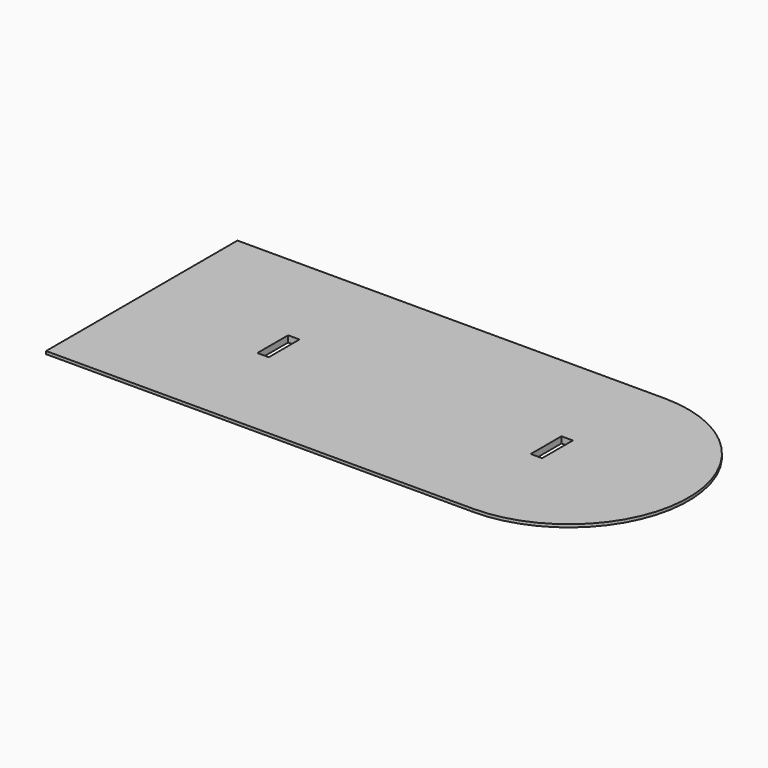
from build123d import *

# Parameters (mm, degrees)
F1_DEPTH = 28.575
F2_SIZE2 = 15.875
F2_SIZE  = 50.8


with BuildPart() as f1:
    # F0 (on Top) → F1 (new body)
    with BuildSketch(Plane.XY):
        with BuildLine():
            ThreePointArc((1219.2, 0), (1062.9707570849, 377.1707570849), (685.8, 533.4))
            Line((685.8, 533.4), (-1219.2, 533.4))
            Line((-1219.2, 533.4), (-1219.2, -533.4))
            Line((-1219.2, -533.4), (685.8, -533.4))
            ThreePointArc((685.8, -533.4), (1062.9707570849, -377.1707570849), (1219.2, 0))
        make_face()
        Polygon((-584.2, 85.725), (-584.2, 0), (-584.2, -85.725), (-635, -85.725), (-635, 85.725), align=None, mode=Mode.SUBTRACT)
        Polygon((584.2, -85.725), (584.2, 0), (584.2, 85.725), (635, 85.725), (635, -85.725), align=None, mode=Mode.SUBTRACT)
    extrude(amount=F1_DEPTH)

    # F2
    f2_edges = [f1.edges().sort_by_distance(p)[0] for p in [
        (-266.7, -533.4, 0),
        (1219.2, 0, 0),
        (-266.7, 533.4, 0),
    ]]
    f2_side = f1.faces().sort_by_distance((-54.568247, 0, 0))[0]
    chamfer(f2_edges, length=F2_SIZE, length2=F2_SIZE2, reference=f2_side)


solid = f1.part
